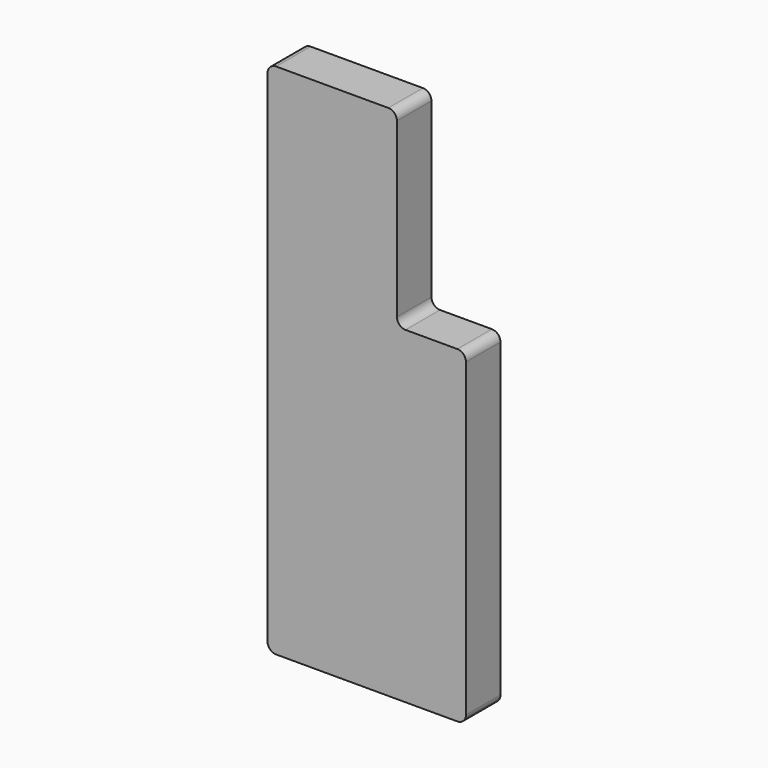
from build123d import *

# Parameters (mm, degrees)
F1_DEPTH = 5
F2_R     = 1
F3_R     = 1


with BuildPart() as f1:
    # F0 (on Front) → F1 (new body)
    with BuildSketch(Plane.XZ):
        Polygon((0, 60), (0, 0), (23, 0), (23, 38), (15, 38), (15, 60), align=None)
    extrude(amount=F1_DEPTH)

    # F2
    f2_edges = [f1.edges().sort_by_distance(p)[0] for p in [
        (0, -2.5, 60),
        (15, -2.5, 60),
        (23, -2.5, 38),
        (0, -2.5, 0),
        (23, -2.5, 0),
    ]]
    fillet(f2_edges, radius=F2_R)

    # F3
    f3_edges = [f1.edges().sort_by_distance(p)[0] for p in [
        (15, -2.5, 38),
    ]]
    fillet(f3_edges, radius=F3_R)


solid = f1.part
